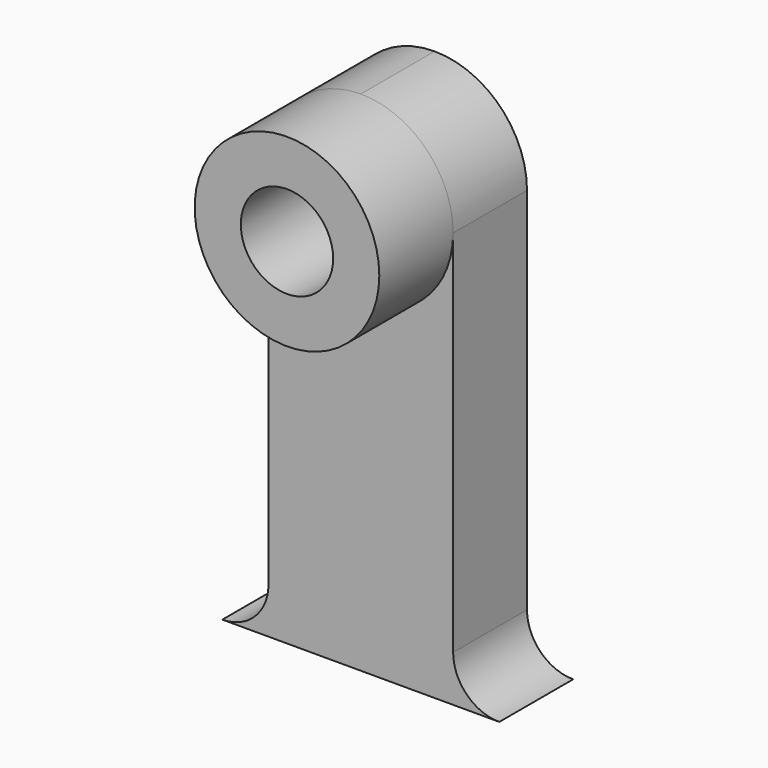
from build123d import *

# Parameters (mm, degrees)
F0_W     = 50.8
F0_H     = 69.85
F1_DEPTH = 12.7
F2_R     = 6.35
F3_DEPTH = 31.75
F4_DEPTH = 12.7


with BuildPart() as f1:
    # F0 (on Front) → F1 (new body)
    with BuildSketch(Plane.XZ):
        with Locations((-18.859848, 4.442824)):
            Rectangle(F0_W, F0_H)
    extrude(amount=F1_DEPTH)

    # F2 (on face) → F3 (cut)
    with BuildSketch(Plane.XZ.offset(12.7)):
        with BuildLine():
            Line((-31.559848, -24.132176), (-31.559848, 26.667824))
            ThreePointArc((-31.559848, 26.667824), (-27.840104, 35.64808), (-18.859848, 39.367824))
            Line((-18.859848, 39.367824), (-44.259848, 39.367824))
            Line((-44.259848, 39.367824), (-44.259848, -30.482176))
            Line((-44.259848, -30.482176), (-37.909848, -30.482176))
            ThreePointArc((-37.909848, -30.482176), (-33.41972, -28.622304), (-31.559848, -24.132176))
        make_face()
        with Locations((-18.859848, 26.667824)):
            Circle(F2_R)
        with BuildLine():
            ThreePointArc((-18.859848, 39.367824), (-9.879591, 35.64808), (-6.159848, 26.667824))
            Line((-6.159848, 26.667824), (-6.159848, -24.132176))
            ThreePointArc((-6.159848, -24.132176), (-4.299976, -28.622304), (0.190152, -30.482176))
            Line((0.190152, -30.482176), (6.540152, -30.482176))
            Line((6.540152, -30.482176), (6.540152, 39.367824))
            Line((6.540152, 39.367824), (-18.859848, 39.367824))
        make_face()
    extrude(amount=-F3_DEPTH, mode=Mode.SUBTRACT)

    # F2 (on face) → F4 (join)
    with BuildSketch(Plane.XZ.offset(12.7)):
        with BuildLine():
            ThreePointArc((-31.559848, 26.667824), (-18.859848, 13.967824), (-6.159848, 26.667824))
            ThreePointArc((-6.159848, 26.667824), (-18.859848, 39.367824), (-31.559848, 26.667824))
        make_face()
        with Locations((-18.859848, 26.667824)):
            Circle(F2_R, mode=Mode.SUBTRACT)
    extrude(amount=F4_DEPTH)


solid = f1.part
